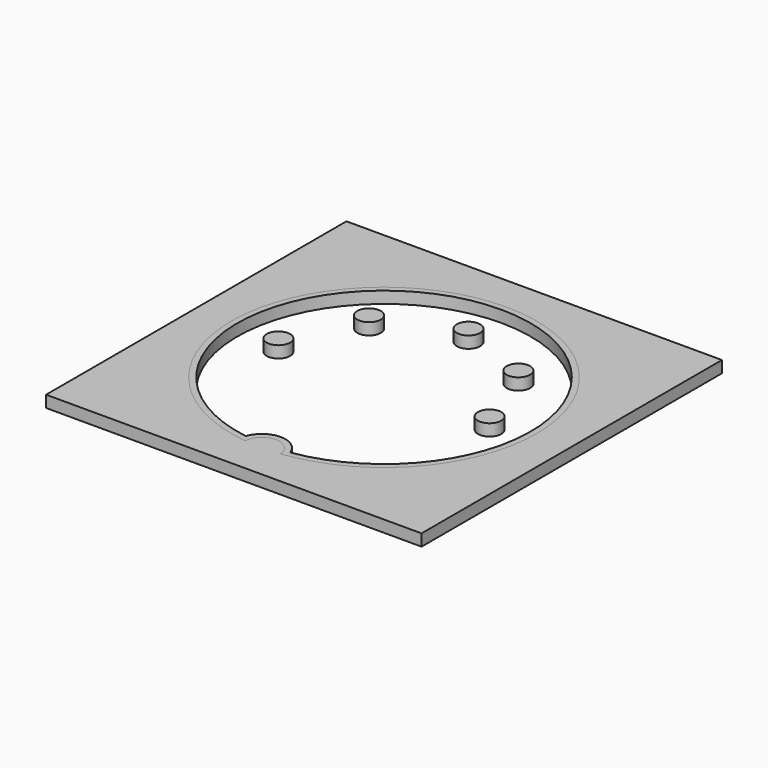
from build123d import *

# Parameters (mm, degrees)
F0_R     = 1
F1_DEPTH = 1
F0_W     = 32
F0_H     = 32
F2_DEPTH = 1


with BuildPart() as f1:
    # F0 (on Top) → F1 (new body)
    with BuildSketch(Plane.XY):
        with Locations((-6.3639610307, 6.3639610307)):
            Circle(F0_R)
    extrude(amount=F1_DEPTH)


with BuildPart() as f1b:
    # F0 (on Top) → F1, piece 2 (new body)
    with BuildSketch(Plane.XY):
        with Locations((-9, 0)):
            Circle(F0_R)
    extrude(amount=F1_DEPTH)


with BuildPart() as f1c:
    # F0 (on Top) → F1, piece 3 (new body)
    with BuildSketch(Plane.XY):
        with Locations((0, 9)):
            Circle(F0_R)
    extrude(amount=F1_DEPTH)


with BuildPart() as f1d:
    # F0 (on Top) → F1, piece 4 (new body)
    with BuildSketch(Plane.XY):
        with Locations((6.3639610307, 6.3639610307)):
            Circle(F0_R)
    extrude(amount=F1_DEPTH)


with BuildPart() as f1e:
    # F0 (on Top) → F1, piece 5 (new body)
    with BuildSketch(Plane.XY):
        with Locations((9, 0)):
            Circle(F0_R)
    extrude(amount=F1_DEPTH)


with BuildPart() as f1f:
    # F0 (on Top) → F1, piece 6 (new body)
    with BuildSketch(Plane.XY):
        with BuildLine():
            ThreePointArc((-1.4975016176, -12.9134615385), (0, -11.5), (1.4975016176, -12.9134615385))
            ThreePointArc((1.4975016176, -12.9134615385), (0, 13), (-1.4975016176, -12.9134615385))
        make_face()
        with BuildLine():
            ThreePointArc((-1.8934008334, -12.3557692308), (0, 12.5), (1.8934008334, -12.3557692308))
            ThreePointArc((1.8934008334, -12.3557692308), (0, -11), (-1.8934008334, -12.3557692308))
        make_face(mode=Mode.SUBTRACT)
    extrude(amount=F1_DEPTH)


with BuildPart() as f2:
    # F0 (on Top) → F2 (new body)
    with BuildSketch(Plane.XY):
        Rectangle(F0_W, F0_H)
        with BuildLine():
            ThreePointArc((-1.4975016176, -12.9134615385), (0, 13), (1.4975016176, -12.9134615385))
            ThreePointArc((1.4975016176, -12.9134615385), (0, -11.5), (-1.4975016176, -12.9134615385))
        make_face(mode=Mode.SUBTRACT)
    extrude(amount=F2_DEPTH)


solid = Compound([f1.part, f1b.part, f1c.part, f1d.part, f1e.part, f1f.part, f2.part])
